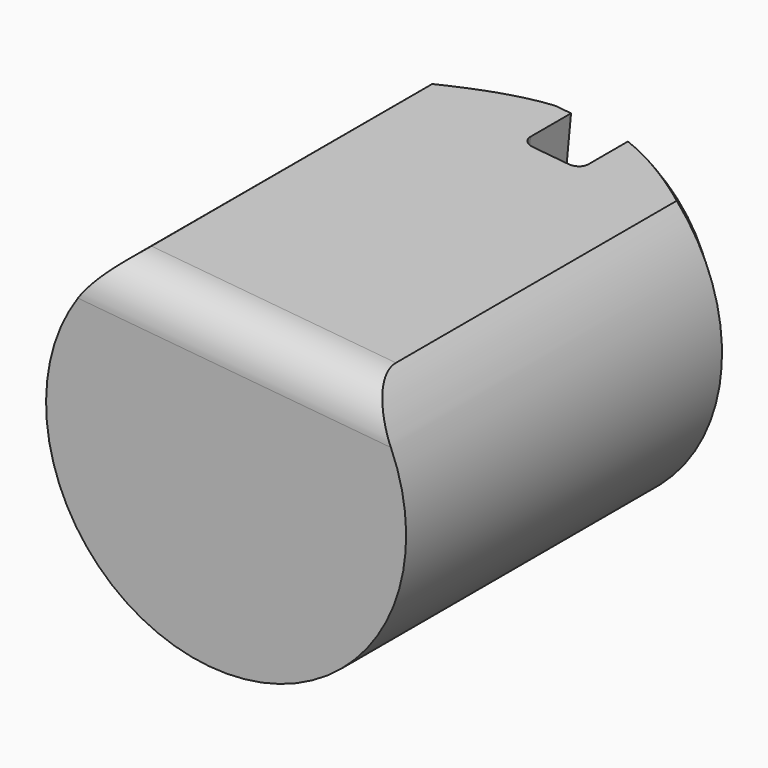
from build123d import *

# Parameters (mm, degrees)
F3_DEPTH = 50.8
F4_R     = 5.08
F5_SIZE  = 5.08
F7_W     = 6.725892
F7_H     = 7.135436
F8_DEPTH = 50.8
F9_R     = 1.27


with BuildPart() as f3:
    # F2 (on offset) → F3 (new body)
    with BuildSketch(Plane.XZ.offset(141.478)):
        with BuildLine():
            Line((-111.399229, 60.157929), (-139.718567, 62.847873))
            ThreePointArc((-139.718567, 62.847873), (-128.971224, 25.57843), (-111.399229, 60.157929))
        make_face()
    extrude(amount=F3_DEPTH)

    # F4
    f4_edges = [f3.edges().sort_by_distance(p)[0] for p in [
        (-125.558898, -192.278, 61.502901),
    ]]
    fillet(f4_edges, radius=F4_R)

    # F5
    f5_edges = [f3.edges().sort_by_distance(p)[0] for p in [
        (-128.971224, -141.478, 25.57843),
    ]]
    chamfer(f5_edges, length=F5_SIZE)

    # F7 (on face) → F8 (cut)
    with BuildSketch(Plane(origin=(4.666977, 0, 49.133249), x_dir=(0.995519, 0, -0.094561), z_dir=(0.094561, 0, 0.995519))):
        with Locations((-129.599802, -145.045718)):
            Rectangle(F7_W, F7_H)
    extrude(amount=-F8_DEPTH, mode=Mode.SUBTRACT)

    # F9
    f9_edges = [f3.edges().sort_by_distance(p)[0] for p in [
        (-129.400884, -148.613436, 43.799411),
        (-122.686359, -148.613436, 43.361026),
    ]]
    fillet(f9_edges, radius=F9_R)


solid = f3.part
